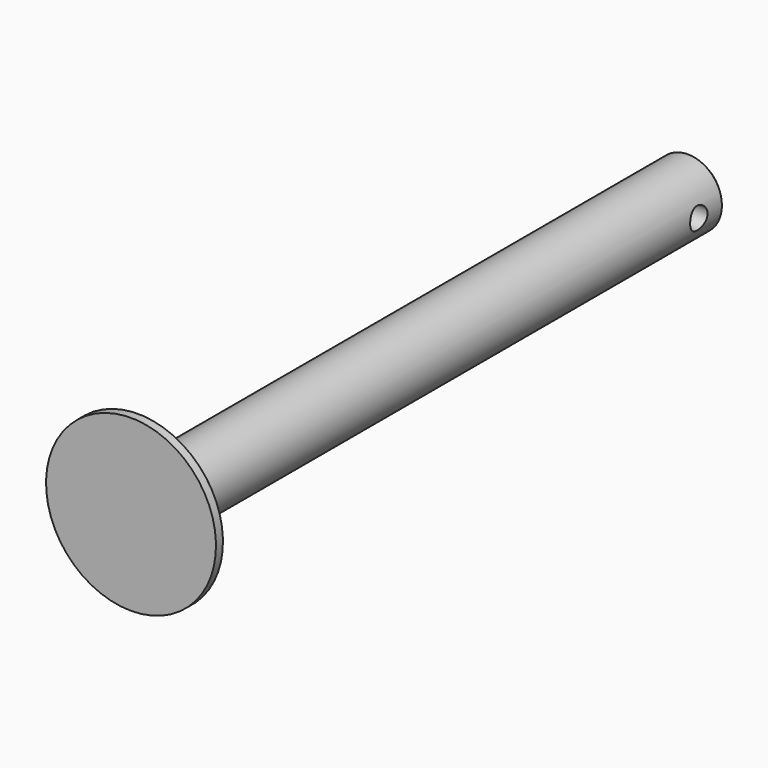
from build123d import *

# Parameters (mm, degrees)
F0_R     = 1.5875
F1_DEPTH = 30.0736
F2_SIZE  = 0.254
F6_R     = 0.508
F7_DEPTH = 5.59535


with BuildPart() as f1:
    # F0 (on Front) → F1 (new body)
    with BuildSketch(Plane.XZ):
        Circle(F0_R)
    extrude(amount=F1_DEPTH)

    # F2
    f2_edges = [f1.edges().sort_by_distance(p)[0] for p in [
        (-1.5875, 0, 0),
    ]]
    chamfer(f2_edges, length=F2_SIZE)

    # F4: sweep along a path in F4_path
    with BuildLine(Plane(origin=(1.5875, -30.0736, 0), x_dir=(0, 0, -1), z_dir=(0, 1, 0))) as f4_path:
        CenterArc((0, 1.5875), 1.5875, 0, 360)
    # F3 (on Right) → F4 (sweep)
    with BuildSketch(Plane.YZ):
        Polygon((-30.0736, 0), (-30.0736, 1.5875), (-32.3596, 3.96875), (-32.766, 3.96875), (-32.766, 0), align=None)
    sweep(path=f4_path.line)

    # F6 (on offset) → F7 (cut, through all)
    with BuildSketch(Plane.YZ.offset(1.6256)):
        with Locations((-1.6002, 0)):
            Circle(F6_R)
    extrude(amount=-F7_DEPTH, mode=Mode.SUBTRACT)


solid = f1.part
